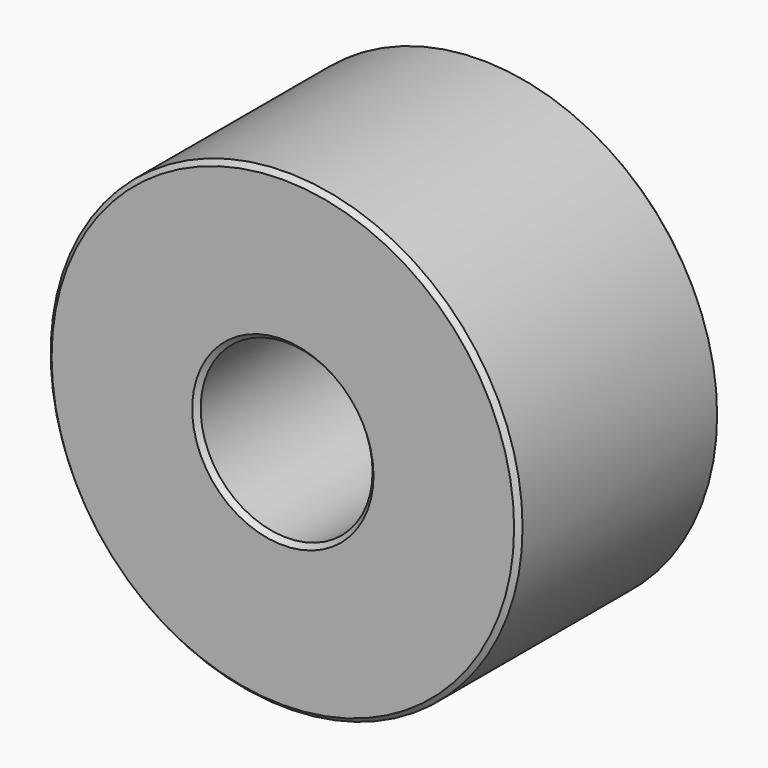
from build123d import *

# Parameters (mm, degrees)
F0_R     = 63.833527
F0_R_2   = 23.253749
F1_DEPTH = 68.326
F2_SIZE  = 1.27


with BuildPart() as f1:
    # F0 (on Front) → F1 (new body)
    with BuildSketch(Plane.XZ):
        Circle(F0_R)
        Circle(F0_R_2, mode=Mode.SUBTRACT)
    extrude(amount=F1_DEPTH)

    # F2
    f2_edges = [f1.edges().sort_by_distance(p)[0] for p in [
        (23.253749, -34.163, 0),
        (-23.253749, 0, 0),
        (-23.253749, -68.326, 0),
        (-63.833527, -68.326, 0),
        (-63.833527, 0, 0),
    ]]
    chamfer(f2_edges, length=F2_SIZE)


solid = f1.part
